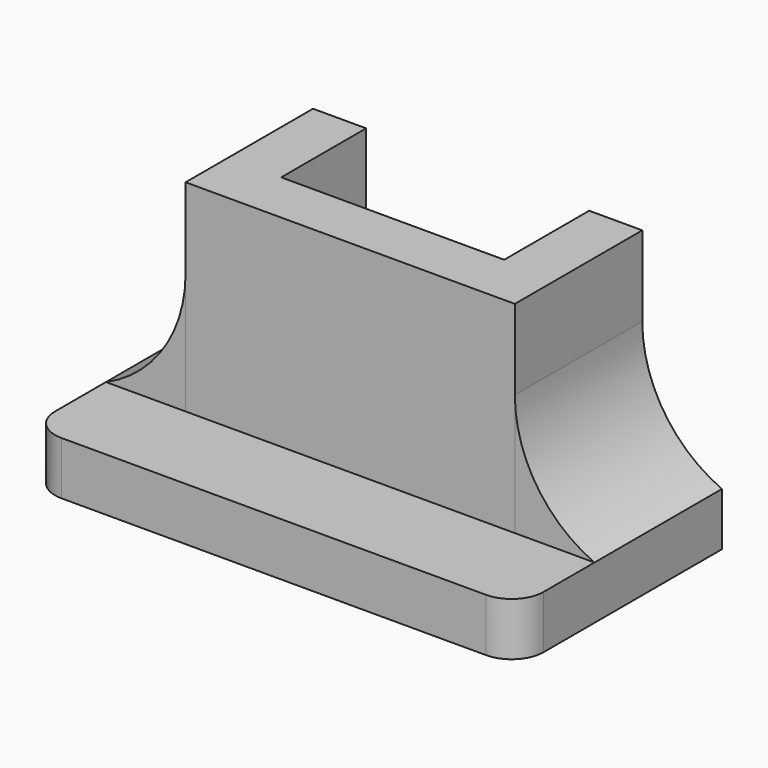
from build123d import *

# Parameters (mm, degrees)
F2_DEPTH = 48
F3_DEPTH = 10
F5_DEPTH = 30


with BuildPart() as f2:
    # F1 (on Top) → F2 (new body)
    with BuildSketch(Plane.XY):
        Polygon((-21, 30), (-31, 30), (-31, 0), (31, 0), (31, 30), (21, 30), (21, 10), (-21, 10), align=None)
    extrude(amount=F2_DEPTH)

    # F0 (on Top) → F3 (join)
    with BuildSketch(Plane.XY):
        with BuildLine():
            Line((46, -12), (46, 30))
            Line((46, 30), (31, 30))
            Line((31, 30), (31, 0))
            Line((31, 0), (-31, 0))
            Line((-31, 0), (-31, 30))
            Line((-31, 30), (-46, 30))
            Line((-46, 30), (-46, -12))
            ThreePointArc((-46, -12), (-44.242641, -16.242641), (-40, -18))
            Line((-40, -18), (40, -18))
            ThreePointArc((40, -18), (44.242641, -16.242641), (46, -12))
        make_face()
    extrude(amount=F3_DEPTH)


with BuildPart() as f5:
    # F4 (on Front) → F5 (new body)
    with BuildSketch(Plane.XZ):
        with BuildLine():
            ThreePointArc((-31, 32.912878), (-35.083499, 19.219815), (-46, 10))
            Line((-46, 10), (-31, 10))
            Line((-31, 10), (-31, 32.912878))
        make_face()
        with BuildLine():
            ThreePointArc((46, 10), (35.083499, 19.219815), (31, 32.912878))
            Line((31, 32.912878), (31, 10))
            Line((31, 10), (46, 10))
        make_face()
    extrude(amount=-F5_DEPTH)


solid = Compound([f2.part, f5.part])
